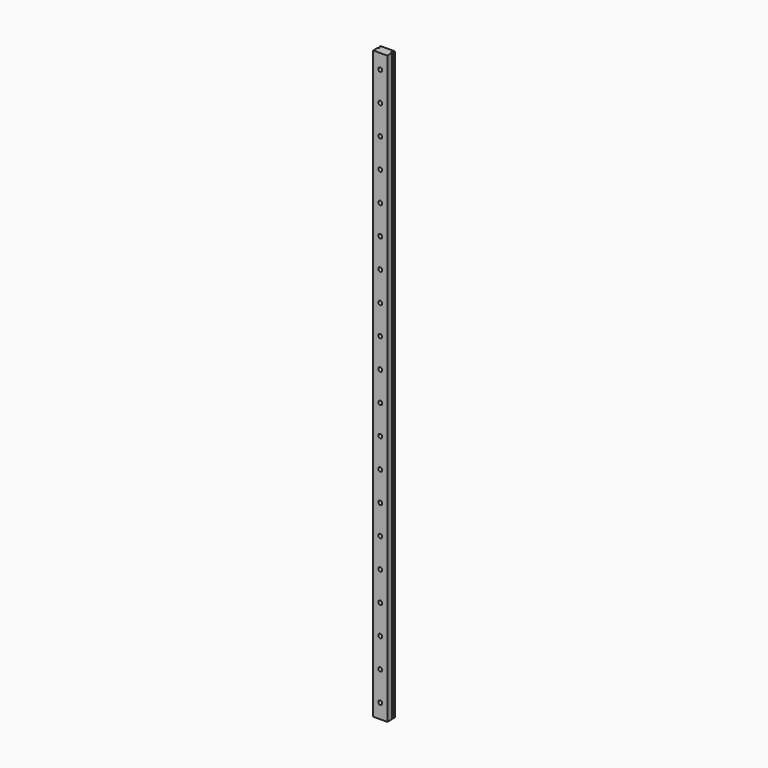
from build123d import *

# Parameters (mm, degrees)
PAD078_DEPTH           = 500
HOLE002_D              = 3.4
HOLE002_CBORE_D        = 6.1
HOLE002_CBORE_DEPTH    = 4.5
LINEARPATTERN001_COUNT = 20
LINEARPATTERN001_PITCH = 25


with BuildPart() as part:
    # Sketch132 → Pad078 (new body)
    with BuildSketch(Plane.XY):
        Polygon((-6, 0), (-6, 5), (-5, 5), (-5, 6), (-6, 6), (-6, 8), (6, 8), (6, 6), (5, 6), (5, 5), (6, 5), (6, 0), align=None)
    extrude(amount=PAD078_DEPTH)

    # Hole002 (through all)
    with Locations(Plane(origin=(0, 8, 0), x_dir=(1, 0, 0), z_dir=(0, 1, 0))):
        with Locations((0, -12.5)):
            hole002 = CounterBoreHole(HOLE002_D / 2, HOLE002_CBORE_D / 2, HOLE002_CBORE_DEPTH)

    # LinearPattern001: Hole002 ×20
    with Locations(*[(0, 0, i * LINEARPATTERN001_PITCH) for i in range(1, LINEARPATTERN001_COUNT)]):
        add(hole002, mode=Mode.SUBTRACT)


solid = part.part
